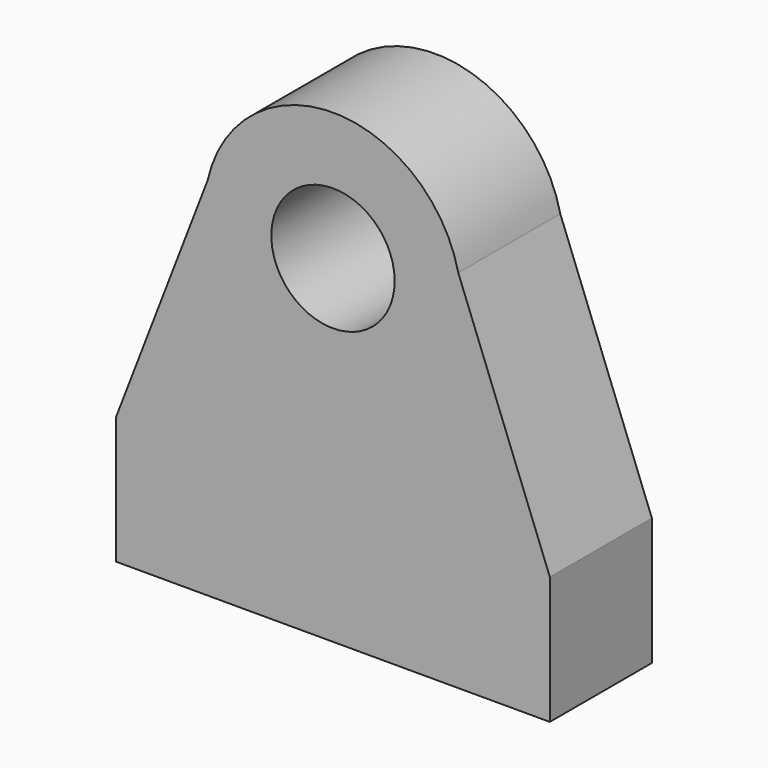
from build123d import *

# Parameters (mm, degrees)
F0_W     = 86.36
F0_H     = 25.4
F0_R     = 12.2809
F1_DEPTH = 25.4


with BuildPart() as f1:
    # F0 (on Front) → F1 (new body)
    with BuildSketch(Plane.XZ):
        with BuildLine():
            ThreePointArc((24.946787, 31.153673), (25.410052, 28.376437), (25.5651, 25.5651))
            ThreePointArc((25.5651, 25.5651), (-2.811337, 0.155048), (-24.946787, 31.153673))
            Line((-24.946787, 31.153673), (-43.18, -16.261408))
            Line((-43.18, -16.261408), (43.18, -16.261408))
            Line((43.18, -16.261408), (24.946787, 31.153673))
        make_face()
        with Locations((0, -28.961408)):
            Rectangle(F0_W, F0_H)
        with BuildLine():
            ThreePointArc((-24.946787, 31.153673), (-2.811337, 0.155048), (25.5651, 25.5651))
            ThreePointArc((25.5651, 25.5651), (25.410052, 28.376437), (24.946787, 31.153673))
            ThreePointArc((24.946787, 31.153673), (0, 51.1302), (-24.946787, 31.153673))
        make_face()
        with Locations((0, 25.5651)):
            Circle(F0_R, mode=Mode.SUBTRACT)
    extrude(amount=F1_DEPTH)


solid = f1.part
